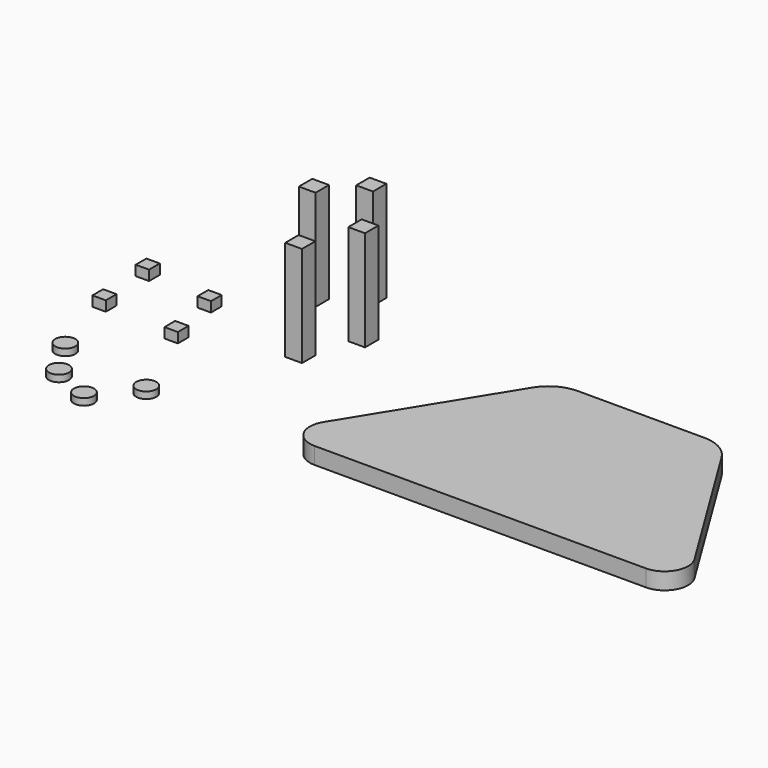
from build123d import *

# Parameters (mm, degrees)
F1_DEPTH = 6.35
F2_W     = 6.35
F2_H     = 6.35
F3_DEPTH = 38.1
F4_W     = 5.08
F4_H     = 5.08
F5_DEPTH = 3.81
F6_R     = 3.81
F7_DEPTH = 2.54


with BuildPart() as f1:
    # F0 (on Top) → F1 (new body)
    with BuildSketch(Plane.XY):
        with BuildLine():
            Line((-31.75, -38.1), (-31.75, 35.721134))
            ThreePointArc((-31.75, 35.721134), (-34.024133, 33.810703), (-35.843005, 31.462695))
            Line((-35.843005, 31.462695), (-70.380306, -24.543739))
            ThreePointArc((-70.380306, -24.543739), (-70.575972, -33.542958), (-62.813397, -38.1))
            Line((-62.813397, -38.1), (-31.75, -38.1))
        make_face()
        with BuildLine():
            Line((23.952148, 38.1), (-23.952148, 38.1))
            ThreePointArc((-23.952148, 38.1), (-28.028467, 37.492055), (-31.75, 35.721134))
            Line((-31.75, 35.721134), (-31.75, -38.1))
            Line((-31.75, -38.1), (31.75, -38.1))
            Line((31.75, -38.1), (31.75, 35.721134))
            ThreePointArc((31.75, 35.721134), (28.028467, 37.492055), (23.952148, 38.1))
        make_face()
        with BuildLine():
            ThreePointArc((35.843005, 31.462695), (34.024133, 33.810703), (31.75, 35.721134))
            Line((31.75, 35.721134), (31.75, -38.1))
            Line((31.75, -38.1), (62.813397, -38.1))
            ThreePointArc((62.813397, -38.1), (70.575972, -33.542958), (70.380306, -24.543739))
            Line((70.380306, -24.543739), (35.843005, 31.462695))
        make_face()
    extrude(amount=F1_DEPTH)


with BuildPart() as f3:
    # F2 (on Top) → F3 (new body)
    with BuildSketch(Plane.XY):
        with Locations((-116.298353, 55.638036)):
            Rectangle(F2_W, F2_H)
        with Locations((-109.697118, 13.74724)):
            Rectangle(F2_W, F2_H)
        with Locations((-101.416707, 33.269715)):
            Rectangle(F2_W, F2_H)
        with Locations((-129.06836, 44.415608)):
            Rectangle(F2_W, F2_H)
    extrude(amount=F3_DEPTH)


with BuildPart() as f5:
    # F4 (on Top) → F5 (new body)
    with BuildSketch(Plane.XY):
        with Locations((-177.272476, 25.908493)):
            Rectangle(F4_W, F4_H)
        with Locations((-174.978114, 2.54)):
            Rectangle(F4_W, F4_H)
        with Locations((-145.637929, 0)):
            Rectangle(F4_W, F4_H)
        with Locations((-150.344558, 21.575261)):
            Rectangle(F4_W, F4_H)
    extrude(amount=F5_DEPTH)


with BuildPart() as f7:
    # F6 (on Top) → F7 (new body)
    with BuildSketch(Plane.XY):
        with Locations((-166.375533, -26.773173)):
            Circle(F6_R)
        with Locations((-142.233253, -48.129804)):
            Circle(F6_R)
        with Locations((-157.399565, -41.010927)):
            Circle(F6_R)
        with Locations((-130.471632, -33.273019)):
            Circle(F6_R)
    extrude(amount=F7_DEPTH)


solid = Compound([f1.part, f3.part, f5.part, f7.part])
